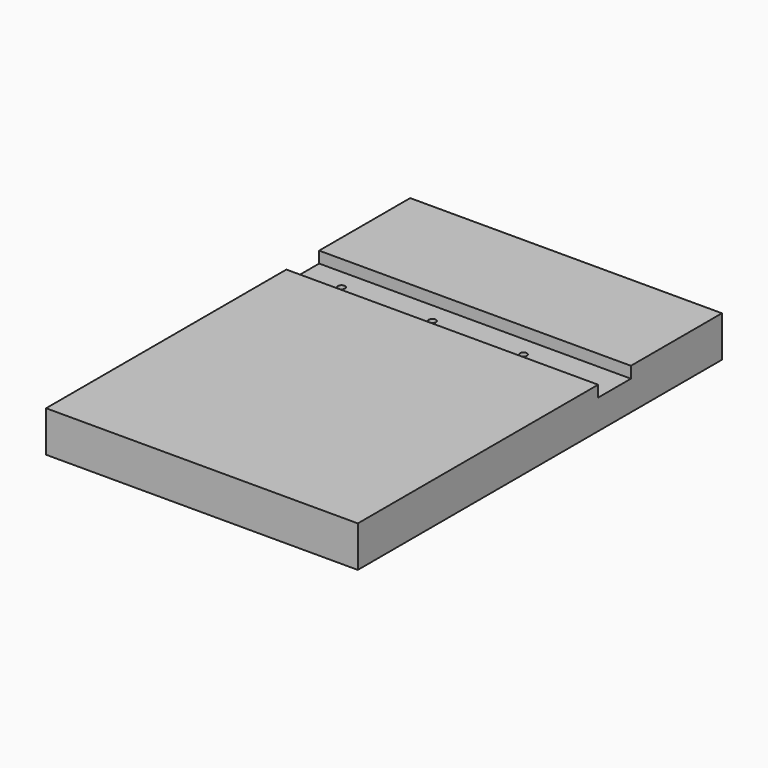
from build123d import *

# Parameters (mm, degrees)
BOX_W                    = 18
BOX_H                    = 200
BOX_DEPTH                = 137
SKETCH001_W              = 18
SKETCH001_H              = 137
POCKET001_DEPTH          = 5
SKETCH003_R              = 1.55
HOLE_DEPTH               = 13.001
CLONE003_PLACEMENT_ANGLE = 90


with BuildPart() as body002:
    # Box → Box (new body)
    with BuildSketch(Plane.XY):
        with Locations((9, 100)):
            Rectangle(BOX_W, BOX_H)
    extrude(amount=BOX_DEPTH)

    # Sketch001 (on Face2 of BaseFeature001) → Pocket001 (cut)
    with BuildSketch(Plane.YZ.offset(18)):
        with Locations((141, 68.5)):
            Rectangle(SKETCH001_W, SKETCH001_H)
    extrude(amount=-POCKET001_DEPTH, mode=Mode.SUBTRACT)

    # Sketch003 (on Face9 of Pocket001) → Hole (cut, through all)
    with BuildSketch(Plane.YZ.offset(13)):
        with Locations((141, 97)):
            Circle(SKETCH003_R)
        with Locations((141, 57)):
            Circle(SKETCH003_R)
        with Locations((141, 17)):
            Circle(SKETCH003_R)
    extrude(amount=-HOLE_DEPTH, mode=Mode.SUBTRACT)


with BuildPart() as model_rightleg_cnc:
    # Part__Mirroring: instance of Body002
    add(body002.part.mirror(Plane(origin=(0, 0, 0), x_dir=(0, -1, 0), z_dir=(1, 0, 0))))


with BuildPart() as model_rightleg_cnc_1:
    # Part__Mirroring placement: moved
    add(model_rightleg_cnc.part.moved(Location((350, 0, 0))))


with BuildPart() as model_rightleg_cnc_2:
    # Clone003 placement: moved
    add(model_rightleg_cnc_1.part.moved(Location((0, 0, 350))).rotate(Axis((0, 0, 350), (0, 1, 0)), CLONE003_PLACEMENT_ANGLE))


solid = model_rightleg_cnc_2.part
